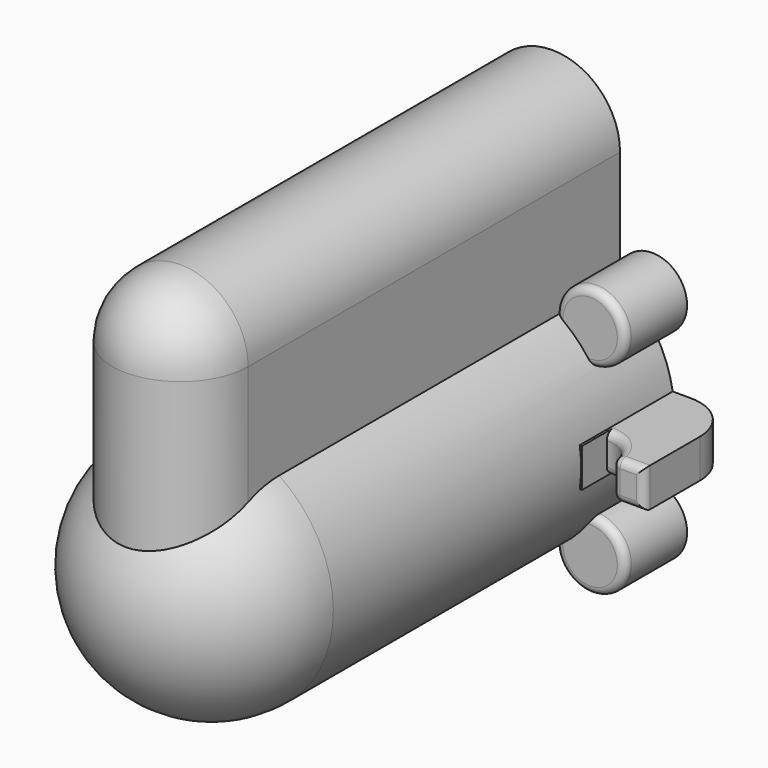
from build123d import *

# Parameters (mm, degrees)
CYLINDER001_R         = 8.75
CYLINDER001_DEPTH     = 60
BOX_W                 = 17.5
BOX_H                 = 27.5
BOX_DEPTH             = 60
SPHERE_ANGLE          = 180
CYLINDER_W            = 8.75
CYLINDER_H            = 27.5
CYLINDER_ANGLE        = 180
CYLINDER002_R         = 15.75
CYLINDER002_DEPTH     = 55
CYLINDER003_R         = 13.75
CYLINDER003_DEPTH     = 55
CYLINDER004_W         = 6.75
CYLINDER004_H         = 27.5
CYLINDER004_ANGLE     = 180
SPHERE003_ANGLE       = 180
CYLINDER005_R         = 6.75
CYLINDER005_DEPTH     = 60
CYLINDER006_R         = 4.5
CYLINDER006_DEPTH     = 10
POLARPATTERN_COUNT    = 4
CYLINDER007_R         = 1.5
CYLINDER007_DEPTH     = 8
POLARPATTERN001_COUNT = 4
BOX018_W              = 10
BOX018_H              = 5
BOX018_DEPTH          = 15
CYLINDER022_W         = 4
CYLINDER022_H         = 5
CYLINDER022_ANGLE     = 90
FILLET017_R           = 1
FILLET018_R           = 6


with BuildPart() as part:
    # Cylinder001 → Cylinder001 (join)
    with BuildSketch(Plane(origin=(0, 0, 27.5), x_dir=(1, 0, 0), z_dir=(0, -1, 0))):
        Circle(CYLINDER001_R)
    extrude(amount=CYLINDER001_DEPTH)

    # Box → Box (join)
    with BuildSketch(Plane(origin=(-8.75, -60, 27.5), x_dir=(1, 0, 0), z_dir=(0, 1, 0))):
        with Locations((8.75, 13.75)):
            Rectangle(BOX_W, BOX_H)
    extrude(amount=BOX_DEPTH)

    # Sphere → Sphere (revolve)
    with BuildSketch(Plane(origin=(0, -55, 0), x_dir=(1, 0, 0), z_dir=(0, 1, 0))):
        with BuildLine():
            ThreePointArc((0, -15.75), (15.75, 0), (0, 15.75))
            Line((0, 15.75), (0, -15.75))
        make_face()
    revolve(axis=Axis((0, -55, 0), (0, 0, -1)), revolution_arc=SPHERE_ANGLE)

    # Sphere002 → Sphere002 (revolve)
    with BuildSketch(Plane(origin=(0, -60, 27.5), x_dir=(0, 0, 1), z_dir=(1, 0, 0))):
        with BuildLine():
            ThreePointArc((0, -8.75), (8.75, 0), (0, 8.75))
            Line((0, 8.75), (0, -8.75))
        make_face()
    revolve(axis=Axis((0, -60, 27.5), (0, -1, 0)))

    # Cylinder → Cylinder (revolve)
    with BuildSketch(Plane(origin=(0, -60, 27.5), x_dir=(1, 0, 0), z_dir=(0, 1, 0))):
        with Locations((4.375, 13.75)):
            Rectangle(CYLINDER_W, CYLINDER_H)
    revolve(axis=Axis((0, -60, 27.5), (0, 0, -1)), revolution_arc=CYLINDER_ANGLE)

    # Cylinder002 → Cylinder002 (join)
    with BuildSketch(Plane.XZ):
        Circle(CYLINDER002_R)
    extrude(amount=CYLINDER002_DEPTH)

    # Cylinder003 → Cylinder003 (cut)
    with BuildSketch(Plane.XZ):
        Circle(CYLINDER003_R)
    extrude(amount=CYLINDER003_DEPTH, mode=Mode.SUBTRACT)

    # Cylinder004 → Cylinder004 (revolve, cut)
    with BuildSketch(Plane(origin=(0, -60, 27.5), x_dir=(1, 0, 0), z_dir=(0, 1, 0))):
        with Locations((3.375, 13.75)):
            Rectangle(CYLINDER004_W, CYLINDER004_H)
    revolve(axis=Axis((0, -60, 27.5), (0, 0, -1)), revolution_arc=CYLINDER004_ANGLE, mode=Mode.SUBTRACT)

    # Sphere003 → Sphere003 (revolve, cut)
    with BuildSketch(Plane(origin=(0, -55, 0), x_dir=(1, 0, 0), z_dir=(0, 1, 0))):
        with BuildLine():
            ThreePointArc((0, -13.75), (13.75, 0), (0, 13.75))
            Line((0, 13.75), (0, -13.75))
        make_face()
    revolve(axis=Axis((0, -55, 0), (0, 0, -1)), revolution_arc=SPHERE003_ANGLE, mode=Mode.SUBTRACT)

    # Cylinder005 → Cylinder005 (cut)
    with BuildSketch(Plane(origin=(0, -60, 27.5), x_dir=(1, 0, 0), z_dir=(0, 1, 0))):
        Circle(CYLINDER005_R)
    extrude(amount=CYLINDER005_DEPTH, mode=Mode.SUBTRACT)

    # Sphere004 → Sphere004 (revolve, cut)
    with BuildSketch(Plane(origin=(0, -60, 27.5), x_dir=(0, 0, 1), z_dir=(1, 0, 0))):
        with BuildLine():
            ThreePointArc((0, -6.75), (6.75, 0), (0, 6.75))
            Line((0, 6.75), (0, -6.75))
        make_face()
    revolve(axis=Axis((0, -60, 27.5), (0, -1, 0)), mode=Mode.SUBTRACT)

    # Cylinder006 → Cylinder006 (join)
    with BuildSketch(Plane(origin=(-12.904699, 0, 12.904699), x_dir=(0, 0, 1), z_dir=(0, -1, 0))):
        Circle(CYLINDER006_R)
    cylinder006 = extrude(amount=CYLINDER006_DEPTH)

    # PolarPattern: Cylinder006 ×4 about axis
    polarpattern_axis = Axis((0, 0, 0), (0, 1, 0))
    for i in range(1, POLARPATTERN_COUNT):
        add(cylinder006.rotate(polarpattern_axis, i * 360 / POLARPATTERN_COUNT))

    # Cylinder007 → Cylinder007 (cut)
    with BuildSketch(Plane(origin=(-12.904699, 0, 12.904699), x_dir=(0, 0, 1), z_dir=(0, -1, 0))):
        Circle(CYLINDER007_R)
    cylinder007 = extrude(amount=CYLINDER007_DEPTH, mode=Mode.SUBTRACT)

    # PolarPattern001: Cylinder007 ×4 about axis
    polarpattern001_axis = Axis((0, 0, 0), (0, 1, 0))
    for i in range(1, POLARPATTERN001_COUNT):
        add(cylinder007.rotate(polarpattern001_axis, i * 360 / POLARPATTERN001_COUNT), mode=Mode.SUBTRACT)

    # Box018 → Box018 (join)
    with BuildSketch(Plane(origin=(13.85, 0, -2.5), x_dir=(1, 0, 0), z_dir=(0, -1, 0))):
        with Locations((5, 2.5)):
            Rectangle(BOX018_W, BOX018_H)
    box018 = extrude(amount=BOX018_DEPTH)

    # Mirrored008: Box018 across YZ
    add(box018.mirror(Plane.YZ))

    # Cylinder022 → Cylinder022 (revolve, cut)
    with BuildSketch(Plane(origin=(15.85, -15, -2.5), x_dir=(1, 0, 0), z_dir=(0, -1, 0))):
        with Locations((2, 2.5)):
            Rectangle(CYLINDER022_W, CYLINDER022_H)
    cylinder022 = revolve(axis=Axis((15.85, -15, -2.5), (0, 0, 1)), revolution_arc=CYLINDER022_ANGLE, mode=Mode.SUBTRACT)

    # Mirrored009: Cylinder022 across YZ
    add(cylinder022.mirror(Plane.YZ), mode=Mode.SUBTRACT)

    # Fillet017
    fillet017_edges = [part.edges().sort_by_distance(p)[0] for p in [
        (-18.678427, -12.171573, 2.5),
        (-19.85, -15, 0),
        (-21.85, -15, -2.5),
        (-23.85, -15, 0),
        (-21.85, -15, 2.5),
        (-18.678427, -12.171573, -2.5),
        (13.786134, -10, 17.317529),
        (18.678427, -12.171573, 2.5),
        (21.85, -15, 2.5),
        (23.85, -15, 0),
        (21.85, -15, -2.5),
        (19.85, -15, 0),
        (17.400156, -10, -13.106837),
        (18.678427, -12.171573, -2.5),
        (-17.400156, -10, 13.106837),
        (-13.106837, -10, -17.400156),
    ]]
    fillet(fillet017_edges, radius=FILLET017_R)

    # Fillet018
    fillet018_edges = [part.edges().sort_by_distance(p)[0] for p in [
        (23.85, 0, 0),
        (-23.85, 0, 0),
    ]]
    fillet(fillet018_edges, radius=FILLET018_R)


solid = part.part
